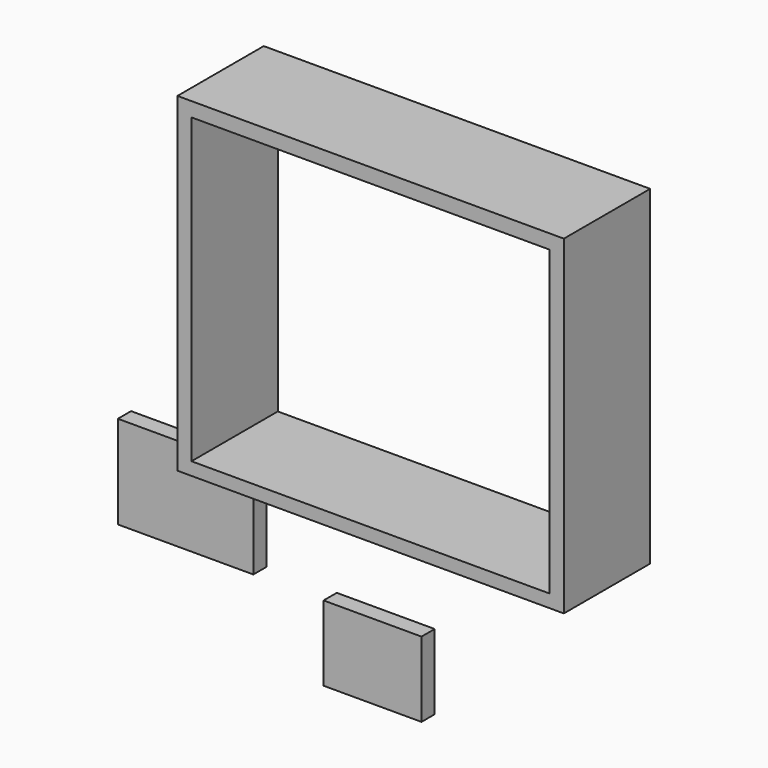
from build123d import *

# Parameters (mm, degrees)
F0_W     = 70.204511
F0_H     = 59.94992
F0_W_2   = 65
F0_H_2   = 55
F1_DEPTH = 19.6
F2_W     = 24.618644
F2_H     = 16.906779
F2_W_2   = 17.796611
F2_H_2   = 13.64407
F3_DEPTH = 3


with BuildPart() as f1:
    # F0 (on Front) → F1 (new body)
    with BuildSketch(Plane.XZ):
        with Locations((-1.446162, 0.657346)):
            Rectangle(F0_W, F0_H)
        with Locations((-1.496321, 0.525876)):
            Rectangle(F0_W_2, F0_H_2, mode=Mode.SUBTRACT)
    extrude(amount=F1_DEPTH)


with BuildPart() as f3:
    # F2 (on Front) → F3 (new body)
    with BuildSketch(Plane.XZ):
        with Locations((-48.34746, -44.046612)):
            Rectangle(F2_W, F2_H)
        with Locations((-14.385593, -59.322037)):
            Rectangle(F2_W_2, F2_H_2)
    extrude(amount=F3_DEPTH)


solid = Compound([f1.part, f3.part])
